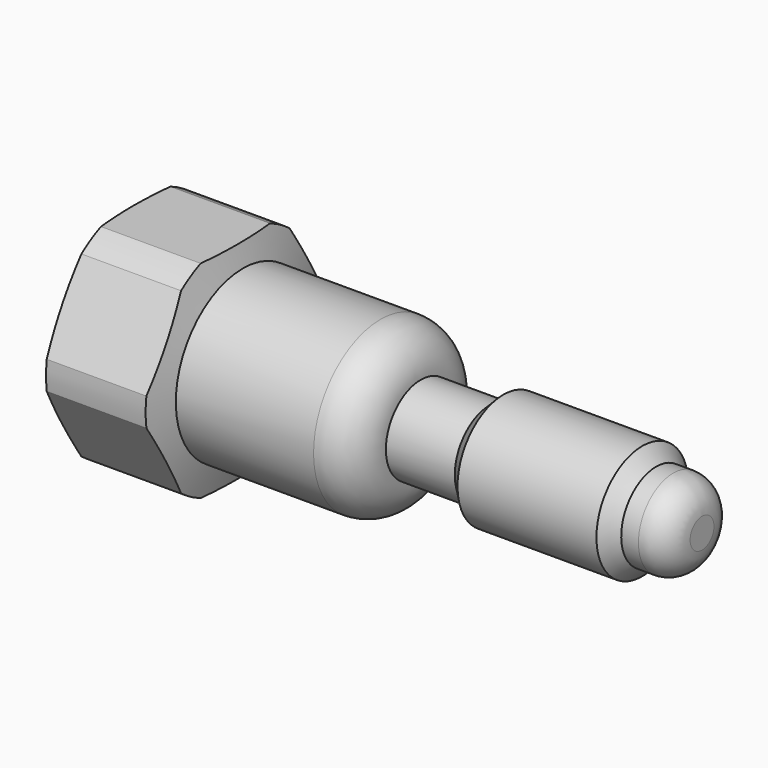
from build123d import *

# Parameters (mm, degrees)
F3_DEPTH = 6.35
F4_R     = 15.610651
F5_DEPTH = 25.4


with BuildPart() as f1:
    # F0 (on Front) → F1 (revolve)
    with BuildSketch(Plane.XZ):
        with BuildLine():
            Line((-63.5, 0), (0, 0))
            Line((0, 0), (0, 1.651))
            ThreePointArc((0, 1.651), (-0.929936, 3.896064), (-3.175, 4.826))
            Line((-3.175, 4.826), (-5.08, 4.826))
            Line((-5.08, 4.826), (-6.604, 6.35))
            Line((-6.604, 6.35), (-21.971, 6.35))
            Line((-21.971, 6.35), (-23.495, 4.826))
            Line((-23.495, 4.826), (-31.115, 4.826))
            ThreePointArc((-31.115, 4.826), (-32.41691, 7.96909), (-35.56, 9.271))
            Line((-35.56, 9.271), (-50.8, 9.271))
            Line((-50.8, 9.271), (-51.637127, 12.3952))
            Line((-51.637127, 12.3952), (-62.662873, 12.3952))
            Line((-62.662873, 12.3952), (-63.5, 9.271))
            Line((-63.5, 9.271), (-63.5, 0))
        make_face()
    revolve(axis=Axis((-31.75, 0, 0), (-1, 0, 0)))

    # F2 (on face) → F3 (cut)
    with BuildSketch(Plane(origin=(-63.5, 0, 0), x_dir=(0, -1, 0), z_dir=(-1, 0, 0))):
        Polygon((3.666174, 6.35), (-3.666174, 6.35), (-7.332348, 0), (-3.666174, -6.35), (3.666174, -6.35), (7.332348, 0), align=None)
    extrude(amount=-F3_DEPTH, mode=Mode.SUBTRACT)

    # F4 (on face) → F5 (cut)
    with BuildSketch(Plane(origin=(-63.5, 0, 0), x_dir=(0, -1, 0), z_dir=(-1, 0, 0))):
        Circle(F4_R)
        Polygon((-13.198227, 0), (-6.599114, 11.43), (6.599114, 11.43), (13.198227, 0), (6.599114, -11.43), (-6.599114, -11.43), align=None, mode=Mode.SUBTRACT)
    extrude(amount=-F5_DEPTH, mode=Mode.SUBTRACT)


solid = f1.part
